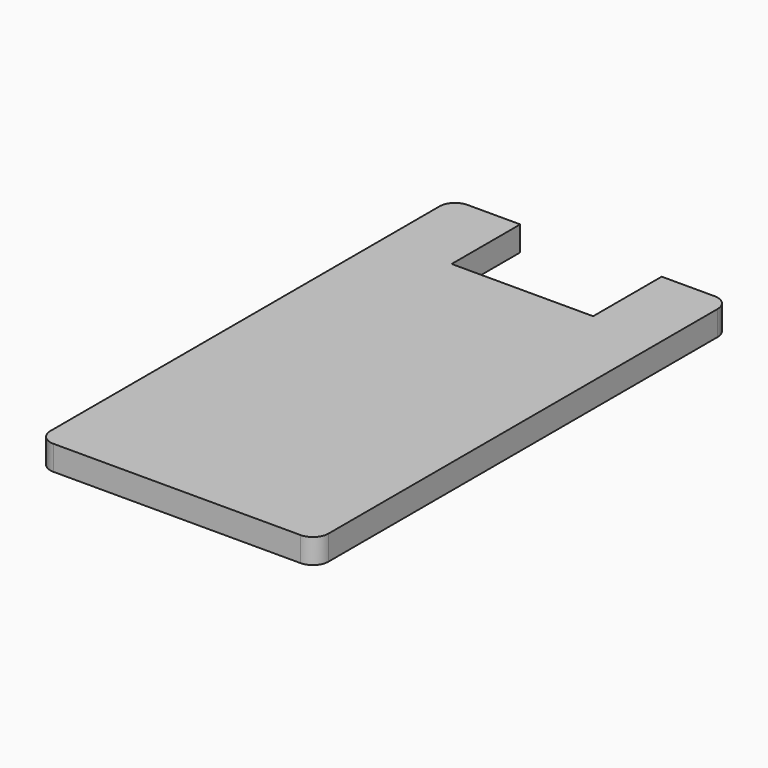
from build123d import *

# Parameters (mm, degrees)
SKETCH_W     = 18
SKETCH_H     = 33.5
PAD_DEPTH    = 1.6
FILLET_R     = 1
SKETCH001_W  = 9.16
SKETCH001_H  = 6.5
POCKET_DEPTH = 5


with BuildPart() as part:
    # Sketch → Pad (new body)
    with BuildSketch(Plane.XY):
        Rectangle(SKETCH_W, SKETCH_H)
    extrude(amount=PAD_DEPTH)

    # Fillet
    fillet_edges = [part.edges().sort_by_distance(p)[0] for p in [
        (9, 16.75, 0.8),
        (9, -16.75, 0.8),
        (-9, -16.75, 0.8),
        (-9, 16.75, 0.8),
    ]]
    fillet(fillet_edges, radius=FILLET_R)

    # Sketch001 → Pocket (cut)
    with BuildSketch(Plane.XY):
        with Locations((0, 14.45)):
            Rectangle(SKETCH001_W, SKETCH001_H)
    extrude(amount=POCKET_DEPTH, mode=Mode.SUBTRACT)


solid = part.part
